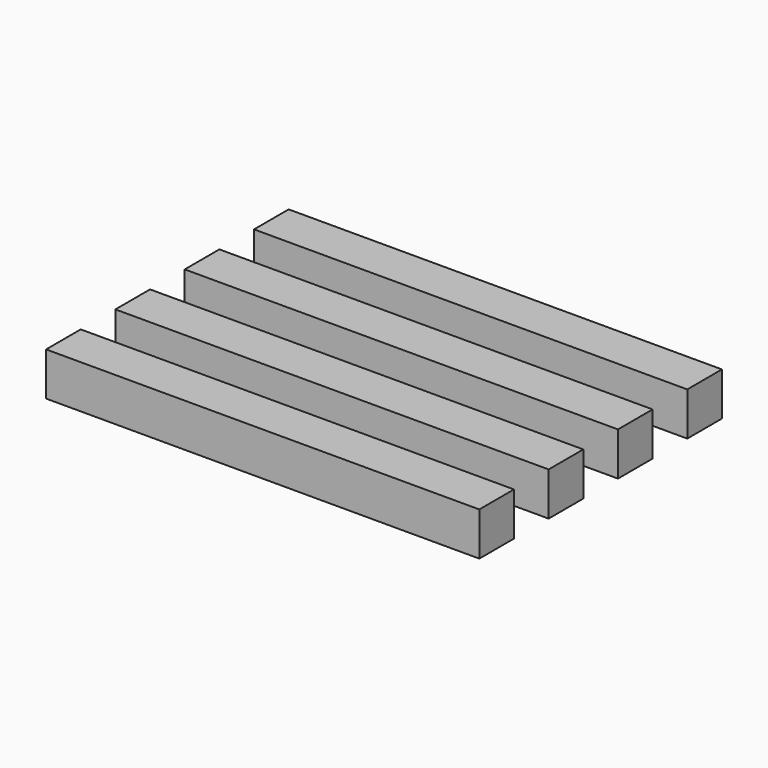
from build123d import *

# Parameters (mm, degrees)
F0_W     = 254
F0_H     = 25.4
F1_DEPTH = 25.4


with BuildPart() as f1:
    # F0 (on Top) → F1 (new body)
    with BuildSketch(Plane.XY):
        Polygon((0.211617, 25.515062), (0.211617, 0.115062), (25.611617, 0.115062), (51.011617, 0.115062), (76.411617, 0.115062), (101.811617, 0.115062), (127.211617, 0.115062), (152.611617, 0.115062), (178.011617, 0.115062), (203.411617, 0.115062), (228.811617, 0.115062), (254.211617, 0.115062), (254.211617, 25.515062), align=None)
        with Locations((127.211617, 63.615062)):
            Rectangle(F0_W, F0_H)
        with Locations((127.211617, 114.415062)):
            Rectangle(F0_W, F0_H)
        with Locations((127.211617, 165.215062)):
            Rectangle(F0_W, F0_H)
    extrude(amount=F1_DEPTH)


solid = f1.part
